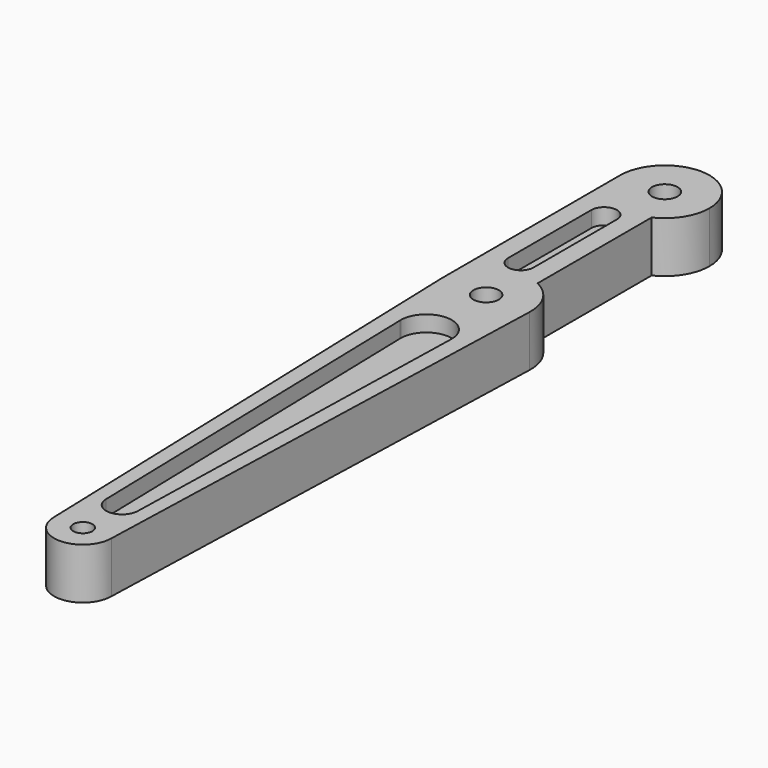
from build123d import *

# Parameters (mm, degrees)
F0_R     = 2
F0_R_2   = 1.5
F1_DEPTH = 8
F3_DEPTH = 2.5
F5_DEPTH = 2.5
F7_DEPTH = 2.5
F9_DEPTH = 3.1


with BuildPart() as f1:
    # F0 (on Top) → F1 (new body)
    with BuildSketch(Plane.XY):
        with BuildLine():
            ThreePointArc((3, 42.922839), (5.91608, 45.505737), (7, 49.247394))
            ThreePointArc((7, 49.247394), (0, 56.247394), (-7, 49.247394))
            ThreePointArc((-7, 49.247394), (-3.741657, 43.331314), (3, 42.922839))
        make_face()
        with Locations((0, 49.247394)):
            Circle(F0_R, mode=Mode.SUBTRACT)
        with BuildLine():
            ThreePointArc((3, 42.922839), (-3.741657, 43.331314), (-7, 49.247394))
            Line((-7, 49.247394), (-7, 14.247394))
            Line((-7, 14.247394), (-6.985994, 13.804799))
            Line((-6.985994, 13.804799), (-4.5, -64.752606))
            ThreePointArc((-4.5, -64.752606), (0, -69.252606), (4.5, -64.752606))
            Line((4.5, -64.752606), (6.996488, 14.025675))
            ThreePointArc((6.996488, 14.025675), (5.974602, 17.894877), (3, 20.571949))
            Line((3, 20.571949), (3, 42.922839))
        make_face()
        with Locations((0, -64.752606)):
            Circle(F0_R_2, mode=Mode.SUBTRACT)
        with Locations((0, 14.247394)):
            Circle(F0_R, mode=Mode.SUBTRACT)
        with BuildLine():
            Line((-6.985994, 13.804799), (-7, 14.247394))
            ThreePointArc((-7, 14.247394), (-6.996498, 14.025986), (-6.985994, 13.804799))
        make_face()
    extrude(amount=F1_DEPTH)

    # F2 (on face) → F3 (cut)
    with BuildSketch(Plane.XY.offset(8)):
        with BuildLine():
            Line((4, 2.52692), (3.994938, 2.325746))
            ThreePointArc((3.994938, 2.325746), (3.998734, 2.426301), (4, 2.52692))
        make_face()
        with BuildLine():
            Line((2.499209, -57.116628), (3.994938, 2.325746))
            Line((3.994938, 2.325746), (4, 2.52692))
            ThreePointArc((4, 2.52692), (0, 6.52692), (-4, 2.52692))
            Line((-4, 2.52692), (-3.994938, 2.325746))
            Line((-3.994938, 2.325746), (-2.499209, -57.116628))
            ThreePointArc((-2.499209, -57.116628), (0, -59.553741), (2.499209, -57.116628))
        make_face()
        with BuildLine():
            Line((-3.994938, 2.325746), (-4, 2.52692))
            ThreePointArc((-4, 2.52692), (-3.998734, 2.426301), (-3.994938, 2.325746))
        make_face()
    extrude(amount=-F3_DEPTH, mode=Mode.SUBTRACT)

    # F4 (on face) → F5 (cut)
    with BuildSketch(Plane.XY.offset(8)):
        with BuildLine():
            Line((0, 23.537273), (0, 39.860327))
            ThreePointArc((0, 39.860327), (-2, 41.860327), (-4, 39.860327))
            Line((-4, 39.860327), (-4, 23.537273))
            ThreePointArc((-4, 23.537273), (-2, 21.537273), (0, 23.537273))
        make_face()
    extrude(amount=-F5_DEPTH, mode=Mode.SUBTRACT)

    # F6 (on face) → F7 (cut)
    with BuildSketch(Plane(origin=(0, 0, 0), x_dir=(1, 0, 0), z_dir=(0, 0, -1))):
        with BuildLine():
            Line((-4.5, -24.484327), (-4.5, -39.479643))
            ThreePointArc((-4.5, -39.479643), (-2, -41.979643), (0.5, -39.479643))
            Line((0.5, -39.479643), (0.5, -24.484327))
            ThreePointArc((0.5, -24.484327), (-2, -21.984327), (-4.5, -24.484327))
        make_face()
    extrude(amount=-F7_DEPTH, mode=Mode.SUBTRACT)

    # F8 (on face) → F9 (cut)
    with BuildSketch(Plane(origin=(0, 0, 0), x_dir=(1, 0, 0), z_dir=(0, 0, -1))):
        with BuildLine():
            Line((-4.5, -2.380997), (-4.48963, -2.075676))
            ThreePointArc((-4.48963, -2.075676), (-4.497407, -2.228248), (-4.5, -2.380997))
        make_face()
        with BuildLine():
            Line((-2.498559, 56.54796), (-4.48963, -2.075676))
            Line((-4.48963, -2.075676), (-4.5, -2.380997))
            ThreePointArc((-4.5, -2.380997), (0, -6.880997), (4.5, -2.380997))
            Line((4.5, -2.380997), (4.48963, -2.075676))
            Line((4.48963, -2.075676), (2.498559, 56.54796))
            ThreePointArc((2.498559, 56.54796), (0, 58.9631), (-2.498559, 56.54796))
        make_face()
        with BuildLine():
            Line((4.48963, -2.075676), (4.5, -2.380997))
            ThreePointArc((4.5, -2.380997), (4.497407, -2.228248), (4.48963, -2.075676))
        make_face()
    extrude(amount=-F9_DEPTH, mode=Mode.SUBTRACT)


solid = f1.part
